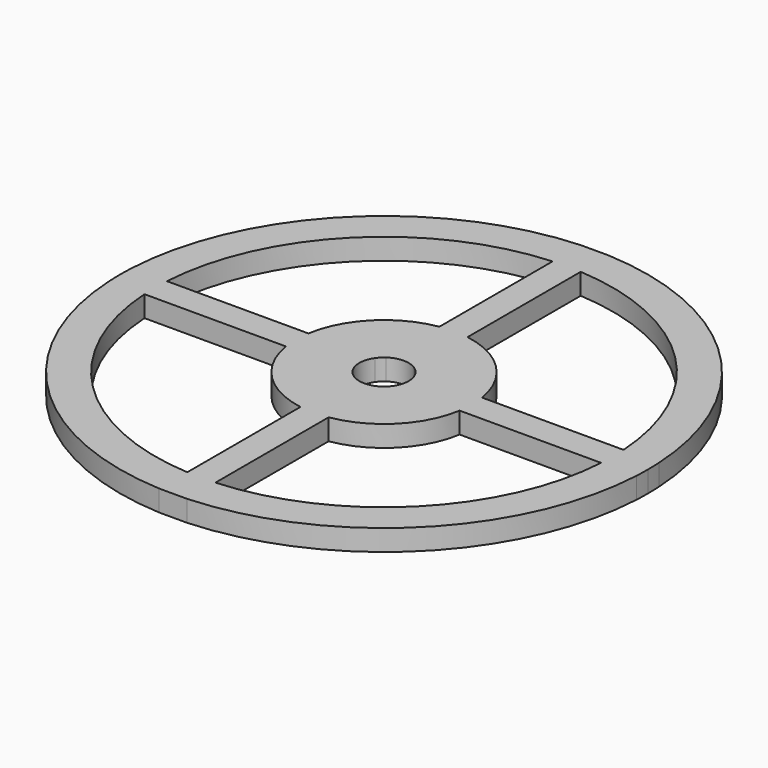
from build123d import *

# Parameters (mm, degrees)
F1_DEPTH = 3


with BuildPart() as f1:
    # F0 (on Top) → F1 (new body)
    with BuildSketch(Plane.XY):
        with BuildLine():
            ThreePointArc((37.4466286867, 2), (26.5165042945, 26.5165042945), (2, 37.4466286867))
            Line((2, 37.4466286867), (2, 32.4384031666))
            ThreePointArc((2, 32.4384031666), (22.9809703886, 22.9809703886), (32.4384031666, 2))
            Line((32.4384031666, 2), (37.4466286867, 2))
        make_face()
        with BuildLine():
            ThreePointArc((2, -37.4466286867), (26.5165042945, -26.5165042945), (37.4466286867, -2))
            Line((37.4466286867, -2), (32.4384031666, -2))
            ThreePointArc((32.4384031666, -2), (22.9809703886, -22.9809703886), (2, -32.4384031666))
            Line((2, -32.4384031666), (2, -37.4466286867))
        make_face()
        with BuildLine():
            ThreePointArc((37.5, 0), (37.4866547971, 1.0003559988), (37.4466286867, 2))
            Line((37.4466286867, 2), (32.4384031666, 2))
            ThreePointArc((32.4384031666, 2), (32.4845971417, 1.0004741588), (32.5, 0))
            ThreePointArc((32.5, 0), (32.4845971417, -1.0004741588), (32.4384031666, -2))
            Line((32.4384031666, -2), (37.4466286867, -2))
            ThreePointArc((37.4466286867, -2), (37.4866547971, -1.0003559988), (37.5, 0))
        make_face()
        with BuildLine():
            ThreePointArc((32.5, 0), (32.4845971417, 1.0004741588), (32.4384031666, 2))
            Line((32.4384031666, 2), (12.3389626793, 2))
            ThreePointArc((12.3389626793, 2), (12.4596756276, 1.0032363902), (12.5, 0))
            ThreePointArc((12.5, 0), (12.4596756276, -1.0032363902), (12.3389626793, -2))
            Line((12.3389626793, -2), (32.4384031666, -2))
            ThreePointArc((32.4384031666, -2), (32.4845971417, -1.0004741588), (32.5, 0))
        make_face()
        with BuildLine():
            ThreePointArc((12.5, 0), (12.4596756276, 1.0032363902), (12.3389626793, 2))
            Line((12.3389626793, 2), (2.8722813233, 2))
            ThreePointArc((2.8722813233, 2), (3.3393850206, 1.0480971731), (3.5, 0))
            ThreePointArc((3.5, 0), (3.3393850206, -1.0480971731), (2.8722813233, -2))
            Line((2.8722813233, -2), (12.3389626793, -2))
            ThreePointArc((12.3389626793, -2), (12.4596756276, -1.0032363902), (12.5, 0))
        make_face()
        with BuildLine():
            ThreePointArc((2, -12.3389626793), (8.8388347648, -8.8388347648), (12.3389626793, -2))
            Line((12.3389626793, -2), (2.8722813233, -2))
            ThreePointArc((2.8722813233, -2), (2.4748737342, -2.4748737342), (2, -2.8722813233))
            Line((2, -2.8722813233), (2, -12.3389626793))
        make_face()
        with BuildLine():
            ThreePointArc((12.3389626793, 2), (8.8388347648, 8.8388347648), (2, 12.3389626793))
            Line((2, 12.3389626793), (2, 2.8722813233))
            ThreePointArc((2, 2.8722813233), (2.4748737342, 2.4748737342), (2.8722813233, 2))
            Line((2.8722813233, 2), (12.3389626793, 2))
        make_face()
        with BuildLine():
            Line((-2, 2.8722813233), (-2, 12.3389626793))
            ThreePointArc((-2, 12.3389626793), (-8.8388347648, 8.8388347648), (-12.3389626793, 2))
            Line((-12.3389626793, 2), (-2.8722813233, 2))
            ThreePointArc((-2.8722813233, 2), (-2.4748737342, 2.4748737342), (-2, 2.8722813233))
        make_face()
        with BuildLine():
            Line((-2.8722813233, 2), (-12.3389626793, 2))
            ThreePointArc((-12.3389626793, 2), (-12.5, 0), (-12.3389626793, -2))
            Line((-12.3389626793, -2), (-2.8722813233, -2))
            ThreePointArc((-2.8722813233, -2), (-3.5, 0), (-2.8722813233, 2))
        make_face()
        with BuildLine():
            Line((-2.8722813233, -2), (-12.3389626793, -2))
            ThreePointArc((-12.3389626793, -2), (-8.8388347648, -8.8388347648), (-2, -12.3389626793))
            Line((-2, -12.3389626793), (-2, -2.8722813233))
            ThreePointArc((-2, -2.8722813233), (-2.4748737342, -2.4748737342), (-2.8722813233, -2))
        make_face()
        with BuildLine():
            Line((2, 2.8722813233), (2, 12.3389626793))
            ThreePointArc((2, 12.3389626793), (0, 12.5), (-2, 12.3389626793))
            Line((-2, 12.3389626793), (-2, 2.8722813233))
            ThreePointArc((-2, 2.8722813233), (0, 3.5), (2, 2.8722813233))
        make_face()
        with BuildLine():
            Line((-2, -2.8722813233), (-2, -12.3389626793))
            ThreePointArc((-2, -12.3389626793), (0, -12.5), (2, -12.3389626793))
            Line((2, -12.3389626793), (2, -2.8722813233))
            ThreePointArc((2, -2.8722813233), (0, -3.5), (-2, -2.8722813233))
        make_face()
        with BuildLine():
            Line((-2, -12.3389626793), (-2, -32.4384031666))
            ThreePointArc((-2, -32.4384031666), (0, -32.5), (2, -32.4384031666))
            Line((2, -32.4384031666), (2, -12.3389626793))
            ThreePointArc((2, -12.3389626793), (0, -12.5), (-2, -12.3389626793))
        make_face()
        with BuildLine():
            Line((-2, -32.4384031666), (-2, -37.4466286867))
            Line((-2, -37.4466286867), (2, -37.4466286867))
            Line((2, -37.4466286867), (2, -32.4384031666))
            ThreePointArc((2, -32.4384031666), (0, -32.5), (-2, -32.4384031666))
        make_face()
        with BuildLine():
            Line((-32.4384031666, -2), (-37.4466286867, -2))
            ThreePointArc((-37.4466286867, -2), (-26.5165042945, -26.5165042945), (-2, -37.4466286867))
            Line((-2, -37.4466286867), (-2, -32.4384031666))
            ThreePointArc((-2, -32.4384031666), (-22.9809703886, -22.9809703886), (-32.4384031666, -2))
        make_face()
        with BuildLine():
            Line((-2, 32.4384031666), (-2, 37.4466286867))
            ThreePointArc((-2, 37.4466286867), (-26.5165042945, 26.5165042945), (-37.4466286867, 2))
            Line((-37.4466286867, 2), (-32.4384031666, 2))
            ThreePointArc((-32.4384031666, 2), (-22.9809703886, 22.9809703886), (-2, 32.4384031666))
        make_face()
        with BuildLine():
            Line((-32.4384031666, 2), (-37.4466286867, 2))
            ThreePointArc((-37.4466286867, 2), (-37.5, 0), (-37.4466286867, -2))
            Line((-37.4466286867, -2), (-32.4384031666, -2))
            ThreePointArc((-32.4384031666, -2), (-32.5, 0), (-32.4384031666, 2))
        make_face()
        with BuildLine():
            Line((-12.3389626793, 2), (-32.4384031666, 2))
            ThreePointArc((-32.4384031666, 2), (-32.5, 0), (-32.4384031666, -2))
            Line((-32.4384031666, -2), (-12.3389626793, -2))
            ThreePointArc((-12.3389626793, -2), (-12.5, 0), (-12.3389626793, 2))
        make_face()
        with BuildLine():
            Line((2, 32.4384031666), (2, 37.4466286867))
            Line((2, 37.4466286867), (-2, 37.4466286867))
            Line((-2, 37.4466286867), (-2, 32.4384031666))
            ThreePointArc((-2, 32.4384031666), (0, 32.5), (2, 32.4384031666))
        make_face()
        with BuildLine():
            Line((2, 12.3389626793), (2, 32.4384031666))
            ThreePointArc((2, 32.4384031666), (0, 32.5), (-2, 32.4384031666))
            Line((-2, 32.4384031666), (-2, 12.3389626793))
            ThreePointArc((-2, 12.3389626793), (0, 12.5), (2, 12.3389626793))
        make_face()
    extrude(amount=F1_DEPTH)


solid = f1.part
